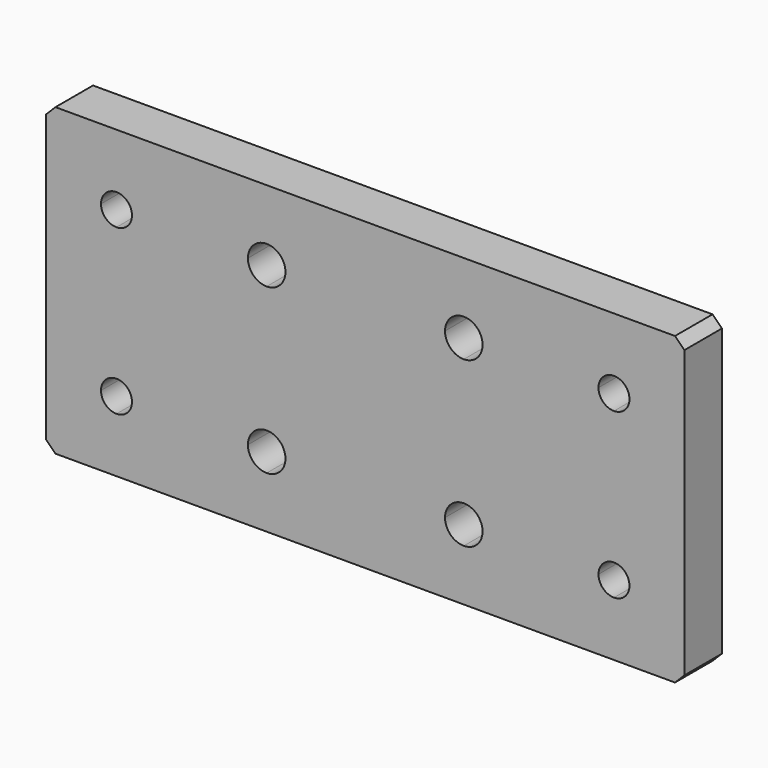
from build123d import *

# Parameters (mm, degrees)
F1_DEPTH = 10


with BuildPart() as f1:
    # F0 (on Front) → F1 (new body)
    with BuildSketch(Plane.XZ):
        Polygon((22.567507, -55.082509), (-109.432493, -55.082509), (-111.432493, -57.082509), (-111.432493, -118.082509), (-109.432493, -120.082509), (22.567507, -120.082509), (24.567507, -118.082509), (24.567507, -57.082509), align=None)
        with BuildLine():
            ThreePointArc((-96.432493, -108.382509), (-98.765945, -107.415961), (-99.732493, -105.082509))
            ThreePointArc((-99.732493, -105.082509), (-98.765945, -102.749057), (-96.432493, -101.782509))
            ThreePointArc((-96.432493, -101.782509), (-94.099041, -102.749057), (-93.132493, -105.082509))
            ThreePointArc((-93.132493, -105.082509), (-94.099041, -107.415961), (-96.432493, -108.382509))
        make_face(mode=Mode.SUBTRACT)
        with BuildLine():
            ThreePointArc((-60.432493, -105.082509), (-61.604066, -107.910936), (-64.432493, -109.082509))
            ThreePointArc((-64.432493, -109.082509), (-67.26092, -107.910936), (-68.432493, -105.082509))
            ThreePointArc((-68.432493, -105.082509), (-67.26092, -102.254082), (-64.432493, -101.082509))
            ThreePointArc((-64.432493, -101.082509), (-61.604066, -102.254082), (-60.432493, -105.082509))
        make_face(mode=Mode.SUBTRACT)
        with BuildLine():
            ThreePointArc((-18.432493, -105.082509), (-19.604066, -107.910936), (-22.432493, -109.082509))
            ThreePointArc((-22.432493, -109.082509), (-25.26092, -107.910936), (-26.432493, -105.082509))
            ThreePointArc((-26.432493, -105.082509), (-25.26092, -102.254082), (-22.432493, -101.082509))
            ThreePointArc((-22.432493, -101.082509), (-19.604066, -102.254082), (-18.432493, -105.082509))
        make_face(mode=Mode.SUBTRACT)
        with BuildLine():
            ThreePointArc((9.567507, -108.382509), (7.234055, -107.415961), (6.267507, -105.082509))
            ThreePointArc((6.267507, -105.082509), (7.234055, -102.749057), (9.567507, -101.782509))
            ThreePointArc((9.567507, -101.782509), (11.900959, -102.749057), (12.867507, -105.082509))
            ThreePointArc((12.867507, -105.082509), (11.900959, -107.415961), (9.567507, -108.382509))
        make_face(mode=Mode.SUBTRACT)
        with BuildLine():
            ThreePointArc((-96.432493, -73.382509), (-98.765945, -72.415961), (-99.732493, -70.082509))
            ThreePointArc((-99.732493, -70.082509), (-98.765945, -67.749057), (-96.432493, -66.782509))
            ThreePointArc((-96.432493, -66.782509), (-94.099041, -67.749057), (-93.132493, -70.082509))
            ThreePointArc((-93.132493, -70.082509), (-94.099041, -72.415961), (-96.432493, -73.382509))
        make_face(mode=Mode.SUBTRACT)
        with BuildLine():
            ThreePointArc((-60.432493, -70.082509), (-61.604066, -72.910936), (-64.432493, -74.082509))
            ThreePointArc((-64.432493, -74.082509), (-67.26092, -72.910936), (-68.432493, -70.082509))
            ThreePointArc((-68.432493, -70.082509), (-67.26092, -67.254082), (-64.432493, -66.082509))
            ThreePointArc((-64.432493, -66.082509), (-61.604066, -67.254082), (-60.432493, -70.082509))
        make_face(mode=Mode.SUBTRACT)
        with BuildLine():
            ThreePointArc((-18.432493, -70.082509), (-19.604066, -72.910936), (-22.432493, -74.082509))
            ThreePointArc((-22.432493, -74.082509), (-25.26092, -72.910936), (-26.432493, -70.082509))
            ThreePointArc((-26.432493, -70.082509), (-25.26092, -67.254082), (-22.432493, -66.082509))
            ThreePointArc((-22.432493, -66.082509), (-19.604066, -67.254082), (-18.432493, -70.082509))
        make_face(mode=Mode.SUBTRACT)
        with BuildLine():
            ThreePointArc((9.567507, -73.382509), (7.234055, -72.415961), (6.267507, -70.082509))
            ThreePointArc((6.267507, -70.082509), (7.234055, -67.749057), (9.567507, -66.782509))
            ThreePointArc((9.567507, -66.782509), (11.900959, -67.749057), (12.867507, -70.082509))
            ThreePointArc((12.867507, -70.082509), (11.900959, -72.415961), (9.567507, -73.382509))
        make_face(mode=Mode.SUBTRACT)
    extrude(amount=-F1_DEPTH)


solid = f1.part
